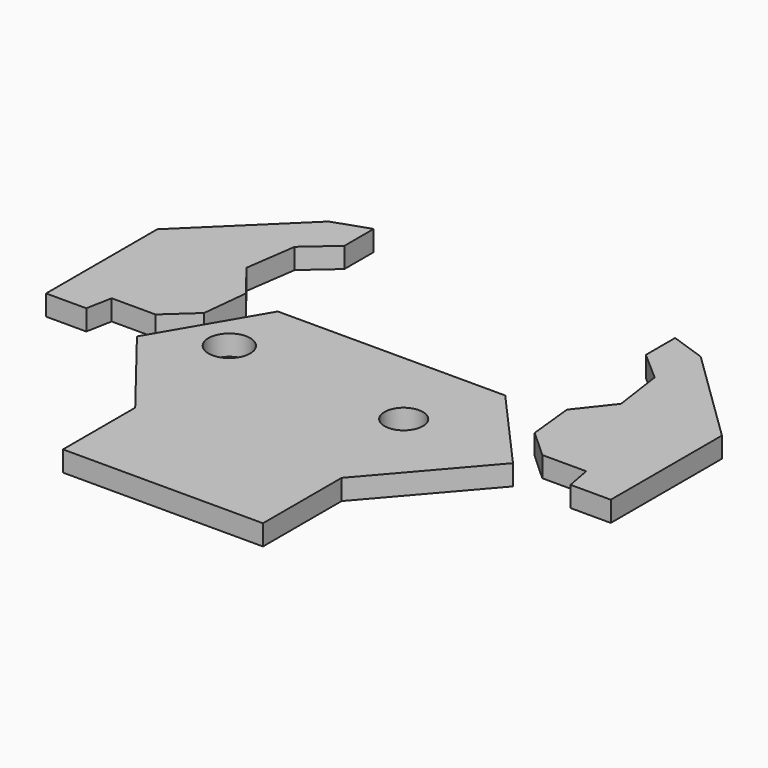
from build123d import *

# Parameters (mm, degrees)
PAD_DEPTH               = 10
SKETCH001_R             = 10.193021
SKETCH001_R_2           = 9.381771
POCKET_DEPTH            = 12
PAD001_DEPTH            = 10
PAD002_DEPTH            = 10
BODY002_PLACEMENT_ANGLE = 180


with BuildPart() as main_part:
    # Sketch → Pad (new body)
    with BuildSketch(Plane.XY):
        Polygon((-60.108452, 56.283215), (51.005184, 56.283215), (88.260933, 14.452204), (44.795876, -35.875736), (44.795876, -83.916046), (-52.918762, -83.916046), (-52.918762, -39.797394), (-89.194092, 6.608888), align=None)
    extrude(amount=PAD_DEPTH)

    # Sketch001 (on Face10 of Pad) → Pocket (cut)
    with BuildSketch(Plane.XY.offset(10)):
        with Locations((-56.839401, 22.593786)):
            Circle(SKETCH001_R)
        with Locations((32.934116, 16.872925)):
            Circle(SKETCH001_R_2)
    extrude(amount=-POCKET_DEPTH, mode=Mode.SUBTRACT)


with BuildPart() as left_grip:
    # Sketch002 → Pad001 (new body)
    with BuildSketch(Plane.XY):
        Polygon((-91.41301, 126.423309), (-138.455688, 80.571571), (-138.455688, 12.687181), (-118.804962, 12.687181), (-116.423019, 25.1922), (-94.985847, 25.1922), (-81.289856, 37.697216), (-78.907967, 60.325348), (-92.008484, 76.998703), (-88.435616, 102.008743), (-74.144173, 114.513763), (-74.144173, 132.378098), align=None)
    extrude(amount=PAD001_DEPTH)


with BuildPart() as right_grip:
    # Sketch003 → Pad002 (new body)
    with BuildSketch(Plane.XY):
        Polygon((-91.41301, 126.423309), (-138.455688, 80.571571), (-138.455688, 12.687181), (-118.804962, 12.687181), (-116.423019, 25.1922), (-94.985847, 25.1922), (-81.289856, 37.697216), (-78.907967, 60.325348), (-92.008484, 76.998703), (-88.435616, 102.008743), (-74.144173, 114.513763), (-74.144173, 132.378098), align=None)
    extrude(amount=PAD002_DEPTH)


with BuildPart() as right_grip_1:
    # Body002 placement: moved
    add(right_grip.part.moved(Location((-1, 0, 11))).rotate(Axis((-1, 0, 11), (0, 1, 0)), BODY002_PLACEMENT_ANGLE))


solid = Compound([main_part.part, left_grip.part, right_grip_1.part])
